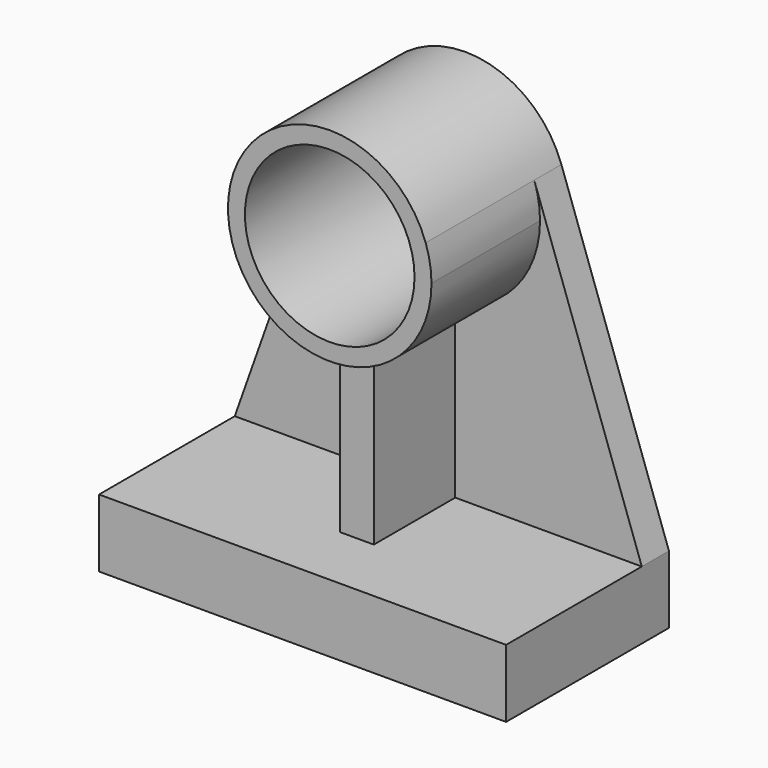
from build123d import *

# Parameters (mm, degrees)
F1_DEPTH = 152.4
F2_DEPTH = 25.4
F4_DEPTH = 101.6
F5_W     = 25.4
F5_H     = 129.54
F6_DEPTH = 101.6
F7_R     = 63.5
F8_DEPTH = 127.001


with BuildPart() as f1:
    # F0 (on Front) → F1 (new body)
    with BuildSketch(Plane.XZ):
        Polygon((-152.4, 0), (-152.4, -50.8), (152.4, -50.8), (152.4, 0), (12.7, 0), (-12.7, 0), align=None)
    extrude(amount=F1_DEPTH)

    # F0 (on Front) → F2 (join)
    with BuildSketch(Plane.XZ):
        Polygon((-152.4, 0), (-152.4, -50.8), (152.4, -50.8), (152.4, 0), (12.7, 0), (-12.7, 0), align=None)
        with BuildLine():
            Line((-74.3468107782, 219.9030454442), (-152.4, 0))
            Line((-152.4, 0), (-12.7, 0))
            Line((-12.7, 0), (-12.7, 128.0657867546))
            ThreePointArc((-12.7, 128.0657867546), (-63.2677432628, 160.7308033696), (-74.3468107782, 219.9030454442))
        make_face()
        with BuildLine():
            Line((12.7, 0), (152.4, 0))
            Line((152.4, 0), (71.8681340167, 228.5260994423))
            ThreePointArc((71.8681340167, 228.5260994423), (75.109226504, 216.0469488193), (76.2, 203.2))
            ThreePointArc((76.2, 203.2), (58.1987113259, 154.0131115032), (12.7, 128.0657867546))
            Line((12.7, 128.0657867546), (12.7, 0))
        make_face()
        with BuildLine():
            Line((-68.2402594432, 237.1073294603), (-74.3468107782, 219.9030454442))
            ThreePointArc((-74.3468107782, 219.9030454442), (-63.2677432628, 160.7308033696), (-12.7, 128.0657867546))
            ThreePointArc((-12.7, 128.0657867546), (0, 127), (12.7, 128.0657867546))
            ThreePointArc((12.7, 128.0657867546), (58.1987113259, 154.0131115032), (76.2, 203.2))
            ThreePointArc((76.2, 203.2), (75.109226504, 216.0469488193), (71.8681340167, 228.5260994423))
            ThreePointArc((71.8681340167, 228.5260994423), (4.6582985773, 279.257479937), (-68.2402594432, 237.1073294603))
        make_face()
        with BuildLine():
            ThreePointArc((-68.2402594432, 237.1073294603), (-71.810618962, 228.6887230809), (-74.3468107782, 219.9030454442))
            Line((-74.3468107782, 219.9030454442), (-68.2402594432, 237.1073294603))
        make_face()
    extrude(amount=F2_DEPTH)

    # F3 (on face) → F4 (join)
    with BuildSketch(Plane.XZ.offset(25.4)):
        with BuildLine():
            ThreePointArc((12.7, 128.0657867546), (58.1987113259, 154.0131115032), (76.2, 203.2))
            ThreePointArc((76.2, 203.2), (75.109226504, 216.0469488193), (71.8681340167, 228.5260994423))
            ThreePointArc((71.8681340167, 228.5260994423), (-4.4861146536, 279.2678300947), (-74.3468107782, 219.9030454442))
            ThreePointArc((-74.3468107782, 219.9030454442), (-63.2677432628, 160.7308033696), (-12.7, 128.0657867546))
            ThreePointArc((-12.7, 128.0657867546), (0, 127), (12.7, 128.0657867546))
        make_face()
    extrude(amount=F4_DEPTH)

    # F5 (on Front) → F6 (join)
    with BuildSketch(Plane.XZ):
        with Locations((0, 64.77)):
            Rectangle(F5_W, F5_H)
    extrude(amount=F6_DEPTH)

    # F7 (on face) → F8 (cut, through all)
    with BuildSketch(Plane.XZ.offset(127)):
        with Locations((0, 203.2)):
            Circle(F7_R)
    extrude(amount=-F8_DEPTH, mode=Mode.SUBTRACT)


solid = f1.part
